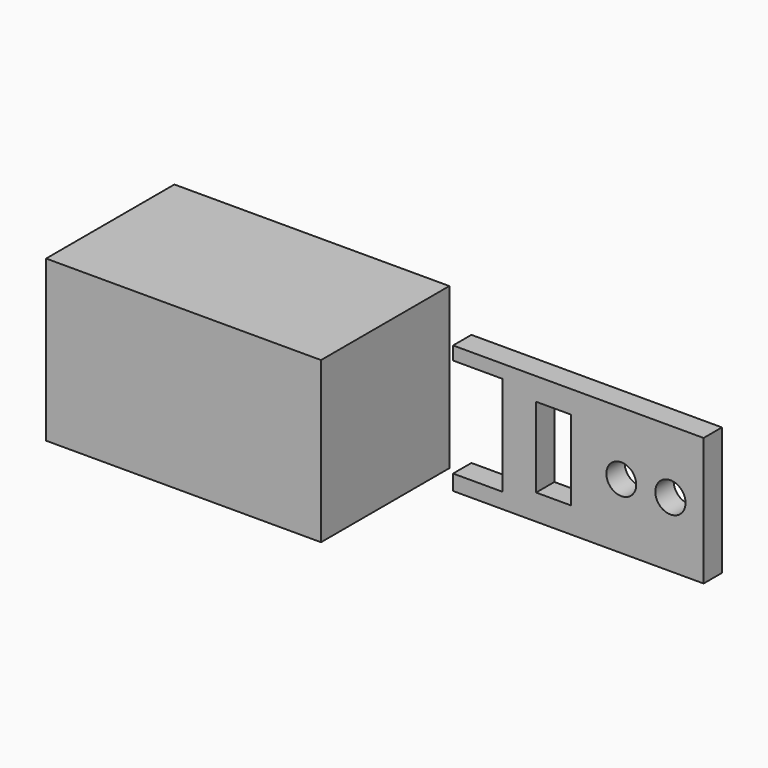
from build123d import *

# Parameters (mm, degrees)
F0_W     = 60
F0_H     = 35
F1_DEPTH = 35
F3_W     = 7.606529
F3_H     = 17.450285
F3_R     = 3.261164
F3_R_2   = 3.300731
F4_DEPTH = 5


with BuildPart() as f1:
    # F0 (on Front) → F1 (new body)
    with BuildSketch(Plane.XZ):
        with Locations((-20.358665, 5.211844)):
            Rectangle(F0_W, F0_H)
    extrude(amount=F1_DEPTH)


with BuildPart() as f4:
    # F3 (on offset) → F4 (new body)
    with BuildSketch(Plane.XZ.offset(5)):
        Polygon((73.130138, 18.23331), (18.457033, 18.23331), (18.457033, 15.324929), (29.195668, 15.324929), (29.195668, -6.376065), (18.457033, -6.376065), (18.457033, -9.73189), (73.130138, -9.73189), align=None)
        with Locations((40.381749, 4.586292)):
            Rectangle(F3_W, F3_H, mode=Mode.SUBTRACT)
        with Locations((55.170059, 4.474432)):
            Circle(F3_R, mode=Mode.SUBTRACT)
        with Locations((65.893278, 4.474432)):
            Circle(F3_R_2, mode=Mode.SUBTRACT)
    extrude(amount=F4_DEPTH)


solid = Compound([f1.part, f4.part])
